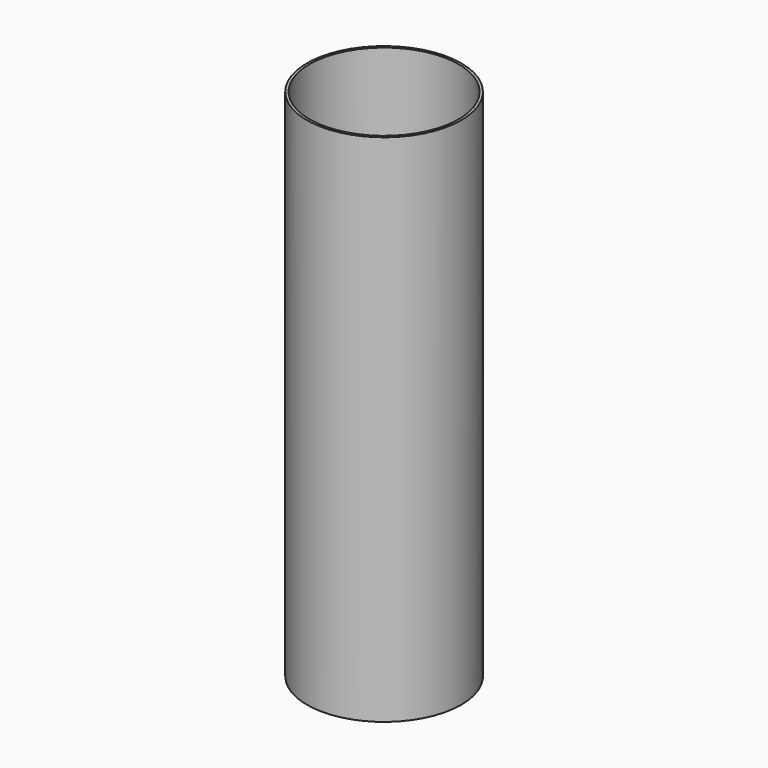
from build123d import *

# Parameters (mm, degrees)
F0_R     = 38.1
F1_DEPTH = 254
F2_D     = 73.66
F2_DEPTH = 231.14
F2_TIP   = 22.1296965988


with BuildPart() as f1:
    # F0 (on Top) → F1 (new body)
    with BuildSketch(Plane.XY):
        Circle(F0_R)
    extrude(amount=-F1_DEPTH)

    # F2
    with Locations(Plane.XY):
        with Locations((0, 0)):
            Hole(F2_D / 2, depth=F2_DEPTH)
            with Locations((0, 0, -(F2_DEPTH + F2_TIP / 2))):  # 118° drill point
                Cone(0, F2_D / 2, F2_TIP, mode=Mode.SUBTRACT)


solid = f1.part
